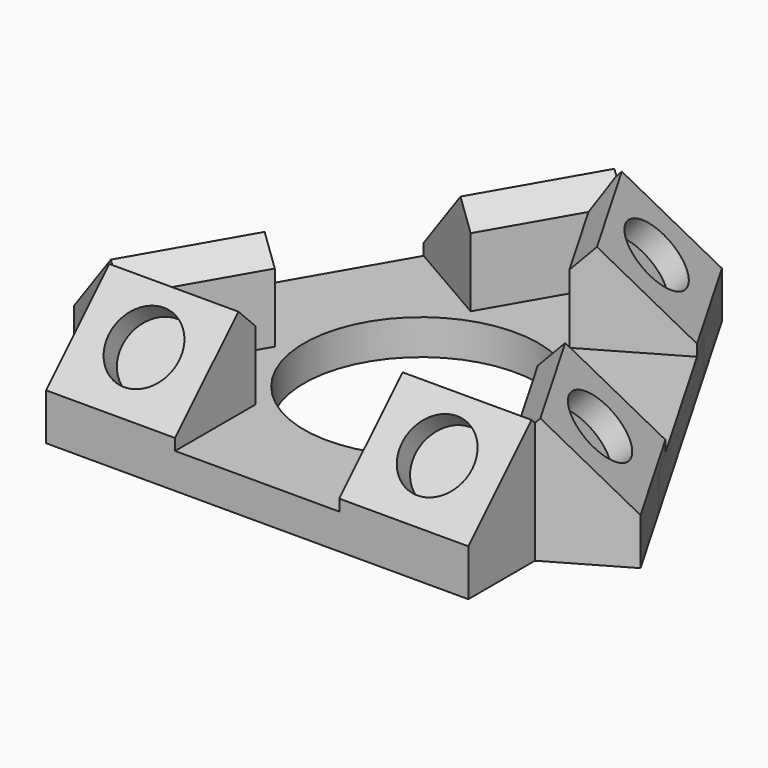
from build123d import *

# Parameters (mm, degrees)
F0_R     = 20
F1_DEPTH = 6
F3_START = 14
F3_DEPTH = 22
F4_R     = 6
F5_DEPTH = 4
F7_COUNT = 3


with BuildPart() as f1:
    # F0 (on Top) → F1 (new body)
    with BuildSketch(Plane.XY):
        Polygon((20.2072594216, 35), (-20.2072594216, 35), (-40.4145188433, 0), (-20.2072594216, -35), (20.2072594216, -35), (40.4145188433, 0), align=None)
        Circle(F0_R, mode=Mode.SUBTRACT)
    extrude(amount=F1_DEPTH)

    # F2 (on Right) → F3 (join)
    with BuildSketch(Plane.YZ.offset(F3_START)):
        Polygon((-29.2928932188, 8), (-32.1213203436, 10.8284271247), (-35, 7.9497474683), (-35, 0), (-17.8076118446, 0), (-17.8076118446, 17.7279220614), (-21.5147186258, 21.4350288425), (-23.6360389693, 19.313708499), (-20.8076118446, 16.4852813742), align=None)
        Polygon((-23.6360389693, 19.313708499), (-32.1213203436, 10.8284271247), (-29.2928932188, 8), (-20.8076118446, 16.4852813742), align=None)
    extrude(amount=F3_DEPTH)

    # F4 (on face) → F5 (cut)
    with BuildSketch(Plane(origin=(0, -21.4748737342, 21.4748737342), x_dir=(1, 0, 0), z_dir=(0, -0.7071067812, 0.7071067812))):
        with Locations((25, -9.0563491861)):
            Circle(F4_R)
    extrude(amount=-F5_DEPTH, mode=Mode.SUBTRACT)

    # F6: F1 across plane


with BuildPart() as f1_1:
    add(f1.part)
    add(f1.part.mirror(Plane.YZ))

    # F7: F1 ×3 about axis
    f7_axis = Axis((0, 0, 0), (0, 0, -1))


with BuildPart() as f1_2:
    add(f1_1.part)
    for i in range(1, F7_COUNT):
        add(f1_1.part.rotate(f7_axis, i * 360 / F7_COUNT))


solid = f1_2.part
